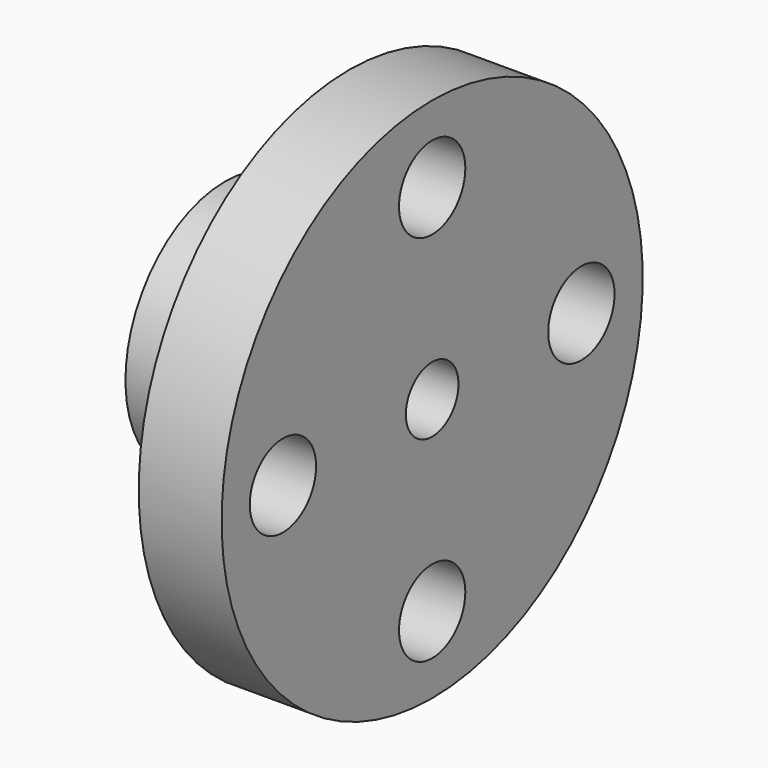
from build123d import *

# Parameters (mm, degrees)
F2_R          = 2
F3_DEPTH      = 12.701
F3_DEPTH_BACK = 12.701
F4_R          = 2
F5_DEPTH      = 10.0010001
F6_R          = 1.5875
F7_DEPTH      = 10.001


with BuildPart() as f1:
    # F0 (on Front) → F1 (revolve)
    with BuildSketch(Plane.XZ):
        Polygon((0, 6), (0, 0), (10, 0), (10, 12.7), (6, 12.7), (6, 6), align=None)
    revolve(axis=Axis((5, 0, 0), (-1, 0, 0)))

    # F2 (on Top) → F3 (cut, two sides)
    with BuildSketch(Plane.XY) as f3_sk:
        with Locations((3, 0)):
            Circle(F2_R)
    extrude(amount=-F3_DEPTH, mode=Mode.SUBTRACT)
    extrude(f3_sk.sketch, amount=F3_DEPTH_BACK, mode=Mode.SUBTRACT)

    # F4 (on face) → F5 (cut, through all)
    with BuildSketch(Plane.YZ.offset(10)):
        with Locations((0, 9)):
            Circle(F4_R)
        with Locations((9, 0)):
            Circle(F4_R)
        with Locations((0, -9)):
            Circle(F4_R)
        with Locations((-9, 0)):
            Circle(F4_R)
    extrude(amount=-F5_DEPTH, mode=Mode.SUBTRACT)

    # F6 (on face) → F7 (cut, through all)
    with BuildSketch(Plane(origin=(0, 0, 0), x_dir=(0, -1, 0), z_dir=(-1, 0, 0))):
        Circle(F6_R)
    extrude(amount=-F7_DEPTH, mode=Mode.SUBTRACT)


solid = f1.part
